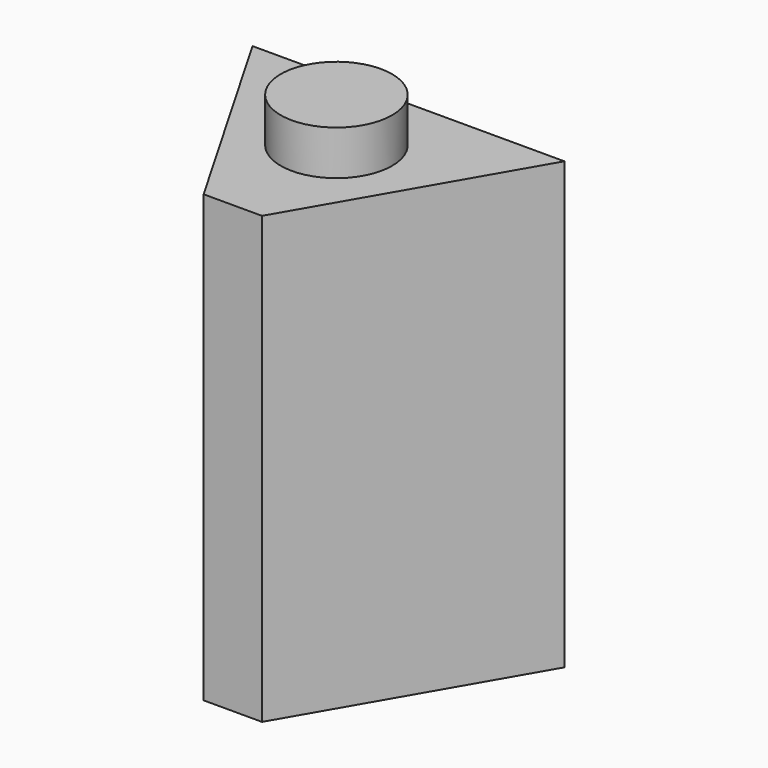
from build123d import *

# Parameters (mm, degrees)
F1_DEPTH = 127
F2_W     = 89.568419
F2_H     = 63.5
F3_DEPTH = 215.9
F4_R     = 15.875
F5_DEPTH = 139.7


with BuildPart() as f1:
    # F0 (on Top) → F1 (new body)
    with BuildSketch(Plane.XY):
        Polygon((44.45, 25.663219), (-44.45, 25.663219), (0, -51.326439), align=None)
    extrude(amount=F1_DEPTH)

    # F2 (on Top) → F3 (intersect)
    with BuildSketch(Plane.XY):
        with Locations((-0.249351, -5.168639)):
            Rectangle(F2_W, F2_H)
    extrude(amount=F3_DEPTH, mode=Mode.INTERSECT)

    # F4 (on Top) → F5 (join)
    with BuildSketch(Plane.XY):
        Circle(F4_R)
    extrude(amount=F5_DEPTH)


solid = f1.part
